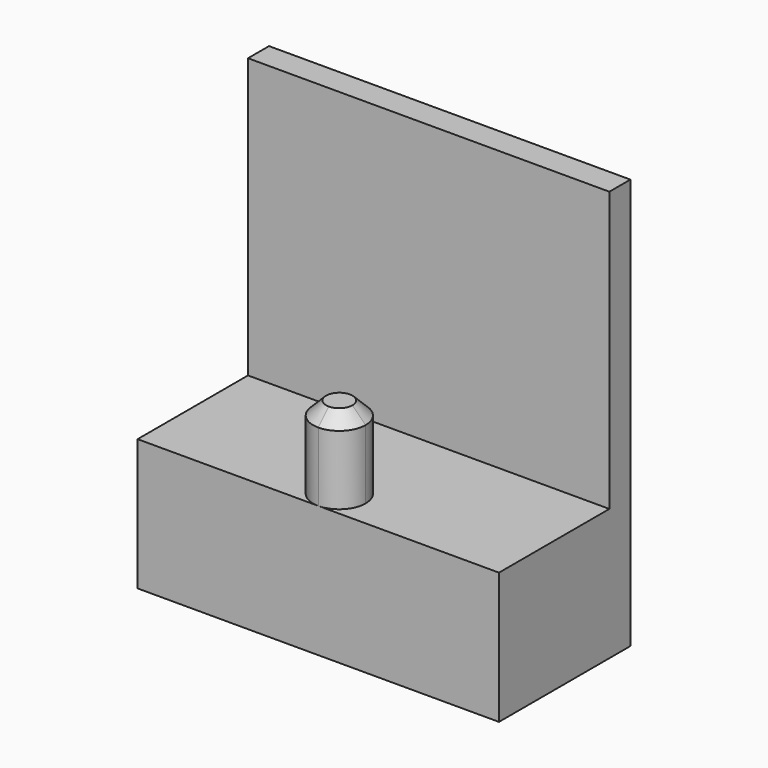
from build123d import *

# Parameters (mm, degrees)
F0_W     = 22
F0_H     = 1.6
F1_DEPTH = 8
F2_DEPTH = 25
F3_DEPTH = 13
F4_SIZE  = 0.8


with BuildPart() as f1:
    # F0 (on Top) → F1 (new body)
    with BuildSketch(Plane.XY):
        Polygon((-15.6633, 3.458741), (-4.6633, 3.458741), (-4.6633, 11.858741), (-26.6633, 11.858741), (-26.6633, 3.458741), align=None)
        with BuildLine():
            ThreePointArc((-14.0633, 5.058741), (-14.531929, 3.92737), (-15.6633, 3.458741))
            ThreePointArc((-15.6633, 3.458741), (-16.794671, 6.190112), (-14.0633, 5.058741))
        make_face(mode=Mode.SUBTRACT)
        with Locations((-15.6633, 12.658741)):
            Rectangle(F0_W, F0_H)
        with BuildLine():
            ThreePointArc((-14.0633, 5.058741), (-16.794671, 6.190112), (-15.6633, 3.458741))
            ThreePointArc((-15.6633, 3.458741), (-14.531929, 3.92737), (-14.0633, 5.058741))
        make_face()
    extrude(amount=F1_DEPTH)

    # F0 (on Top) → F2 (join)
    with BuildSketch(Plane.XY):
        with Locations((-15.6633, 12.658741)):
            Rectangle(F0_W, F0_H)
    extrude(amount=F2_DEPTH)

    # F0 (on Top) → F3 (join)
    with BuildSketch(Plane.XY):
        with BuildLine():
            ThreePointArc((-14.0633, 5.058741), (-16.794671, 6.190112), (-15.6633, 3.458741))
            ThreePointArc((-15.6633, 3.458741), (-14.531929, 3.92737), (-14.0633, 5.058741))
        make_face()
    extrude(amount=F3_DEPTH)

    # F4
    f4_edges = [f1.edges().sort_by_distance(p)[0] for p in [
        (-15.6633, 6.658741, 13),
    ]]
    chamfer(f4_edges, length=F4_SIZE)


solid = f1.part
